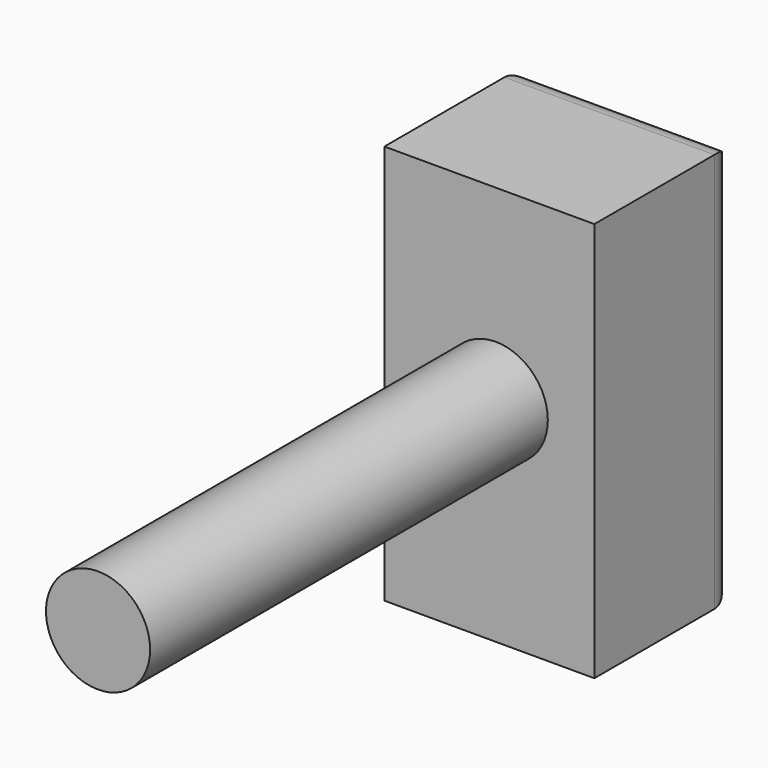
from build123d import *

# Parameters (mm, degrees)
F0_W     = 39.177138
F0_H     = 74.594855
F1_DEPTH = 33
F2_R     = 9.713505
F3_DEPTH = 92.75
F4_R     = 5


with BuildPart() as f1:
    # F0 (on Front) → F1 (new body)
    with BuildSketch(Plane.XZ):
        with Locations((19.588569, 37.297427)):
            Rectangle(F0_W, F0_H)
    extrude(amount=F1_DEPTH)

    # F2 (on face) → F3 (join)
    with BuildSketch(Plane.XZ.offset(33)):
        with Locations((20.775756, 39.572868)):
            Circle(F2_R)
    extrude(amount=F3_DEPTH)

    # F4
    f4_edges = [f1.edges().sort_by_distance(p)[0] for p in [
        (39.177138, 0, 37.297428),
        (19.588569, 0, 74.594855),
        (0, 0, 37.297428),
        (19.588569, 0, 0),
    ]]
    fillet(f4_edges, radius=F4_R)


solid = f1.part
